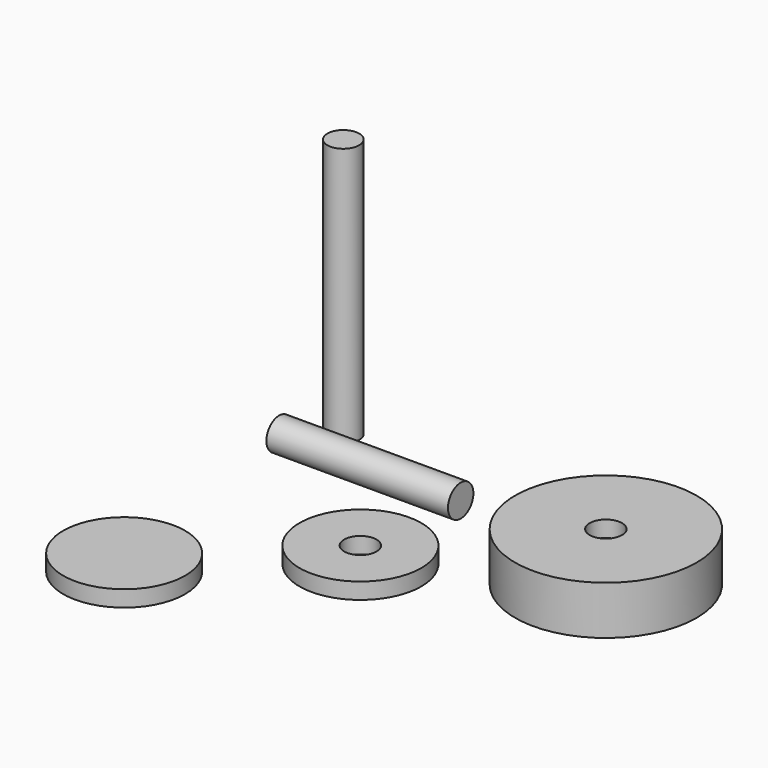
from build123d import *

# Parameters (mm, degrees)
F0_R      = 23.5
F1_DEPTH  = 6.25
F3_D      = 12.5
F0_R_2    = 35
F0_R_3    = 30
F4_DEPTH  = 12.5
F5_R      = 35
F5_R_2    = 30
F6_DEPTH  = 6.25
F8_D      = 12.5
F9_R      = 6.125
F10_DEPTH = 100
F11_R     = 6.125
F12_DEPTH = 70
F13_R     = 23.5
F14_DEPTH = 6.25


with BuildPart() as f1:
    # F0 (on Top) → F1 (new body)
    with BuildSketch(Plane.XY):
        Circle(F0_R)
    extrude(amount=F1_DEPTH)

    # F3 (through all)
    with Locations(Plane.XY.offset(6.25)):
        with Locations((0, 0)):
            Hole(F3_D / 2)


with BuildPart() as f4:
    # F0 (on Top) → F4 (new body)
    with BuildSketch(Plane.XY):
        with Locations((66.009066999, 35.7728339732)):
            Circle(F0_R_2)
        with Locations((66.009066999, 35.7728339732)):
            Circle(F0_R_3, mode=Mode.SUBTRACT)
    extrude(amount=F4_DEPTH)

    # F5 (on face) → F6 (join)
    with BuildSketch(Plane.XY.offset(12.5)):
        with Locations((66.009066999, 35.7728339732)):
            Circle(F5_R)
        with Locations((66.009066999, 35.7728339732)):
            Circle(F5_R_2, mode=Mode.SUBTRACT)
        with Locations((66.009066999, 35.7728339732)):
            Circle(F5_R_2)
    extrude(amount=F6_DEPTH)

    # F8 (through all)
    with Locations(Plane.XY.offset(18.75)):
        with Locations((66.009066999, 35.7728339732)):
            Hole(F8_D / 2)


with BuildPart() as f10:
    # F9 (on Top) → F10 (new body)
    with BuildSketch(Plane.XY):
        with Locations((-56.90395087, 62.8858730197)):
            Circle(F9_R)
    extrude(amount=F10_DEPTH)


with BuildPart() as f12:
    # F11 (on Right) → F12 (new body)
    with BuildSketch(Plane.YZ):
        with Locations((-39.1667149961, 60.1673088968)):
            Circle(F11_R)
    extrude(amount=F12_DEPTH)


with BuildPart() as f14:
    # F13 (on Top) → F14 (new body)
    with BuildSketch(Plane.XY):
        with Locations((-52.3981638253, -48.3348481357)):
            Circle(F13_R)
    extrude(amount=F14_DEPTH)


solid = Compound([f1.part, f4.part, f10.part, f12.part, f14.part])
